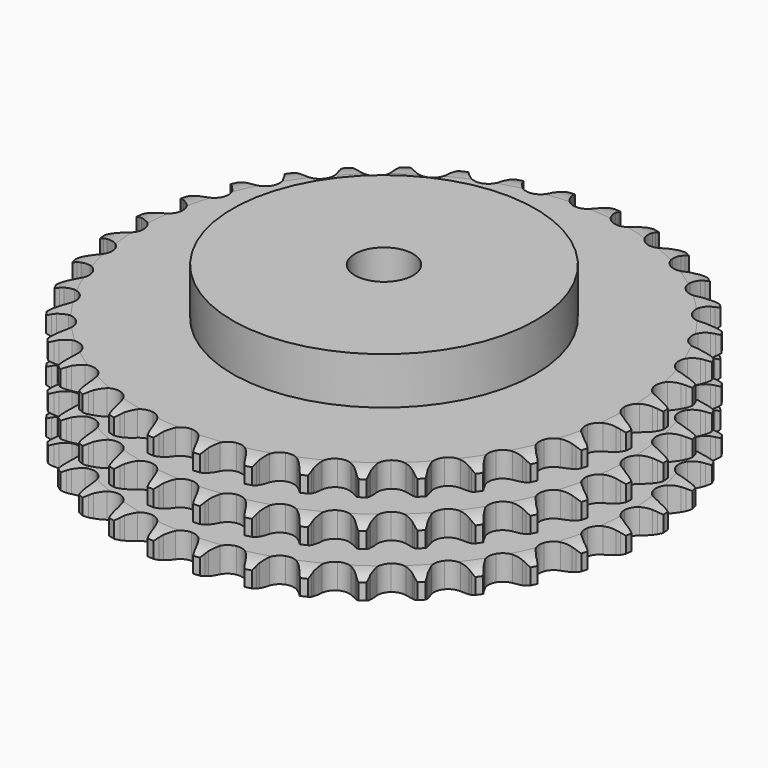
from build123d import *

# Parameters (mm, degrees)
PAD_DEPTH         = 49.8
SKETCH001_R       = 65
PAD001_DEPTH      = 70
SKETCH002_R       = 12.5
POCKET_DEPTH      = 0.001
POCKET_DEPTH_BACK = 70.001


with BuildPart() as part:
    # Sprocket → Pad (new body)
    with BuildSketch(Plane.XY):
        with BuildLine():
            ThreePointArc((-10.052334, 114.898699), (-8.631125, 113.189539), (-7.631331, 111.204226))
            Line((-7.631331, 111.204226), (-7.042556, 109.605897))
            ThreePointArc((-7.042556, 109.605897), (-6.111504, 107.547038), (-4.895578, 105.642496))
            ThreePointArc((-4.895578, 105.642496), (-2.739145, 103.833033), (0, 103.183844))
            ThreePointArc((0, 103.183844), (2.739145, 103.833033), (4.895578, 105.642496))
            ThreePointArc((4.895578, 105.642496), (6.111504, 107.547038), (7.042556, 109.605897))
            Line((7.042556, 109.605897), (7.631331, 111.204226))
            ThreePointArc((7.631331, 111.204226), (8.631125, 113.189539), (10.052334, 114.898699))
            ThreePointArc((10.052334, 114.898699), (11.155158, 112.968715), (11.795017, 110.83995))
            Line((11.795017, 110.83995), (12.0973, 109.163664))
            ThreePointArc((12.0973, 109.163664), (12.656691, 106.974409), (13.523423, 104.887657))
            ThreePointArc((13.523423, 104.887657), (15.332886, 102.731223), (17.917686, 101.616249))
            ThreePointArc((17.917686, 101.616249), (20.727948, 101.779928), (23.16583, 103.18744))
            Line((23.16583, 103.18744), (25.968428, 106.71781))
            ThreePointArc((25.968428, 106.71781), (26.377217, 107.465305), (26.825805, 108.189617))
            ThreePointArc((26.825805, 108.189617), (28.155156, 109.971157), (29.851566, 111.40756))
            ThreePointArc((29.851566, 111.40756), (30.602498, 109.315394), (30.86298, 107.107859))
            Line((30.86298, 107.107859), (30.869586, 105.404549))
            ThreePointArc((30.869586, 105.404549), (31.040318, 103.151416), (31.531523, 100.94586))
            ThreePointArc((31.531523, 100.94586), (32.939035, 98.507978), (35.290953, 96.961096))
            ThreePointArc((35.290953, 96.961096), (38.086943, 96.634292), (40.7322, 97.597087))
            Line((40.7322, 97.597087), (44.105263, 100.587156))
            ThreePointArc((44.105263, 100.587156), (44.637643, 101.25231), (45.20519, 101.887721))
            ThreePointArc((45.20519, 101.887721), (46.823707, 103.411356), (48.743773, 104.531359))
            ThreePointArc((48.743773, 104.531359), (49.119996, 102.340579), (48.993186, 100.12135))
            Line((48.993186, 100.12135), (48.703916, 98.442769))
            ThreePointArc((48.703916, 98.442769), (48.480802, 96.194219), (48.581552, 93.936874))
            ThreePointArc((48.581552, 93.936874), (49.544347, 91.291617), (51.591922, 89.35983))
            ThreePointArc((51.591922, 89.35983), (54.288685, 88.552472), (57.060943, 89.041296))
            Line((57.060943, 89.041296), (60.901981, 91.400213))
            ThreePointArc((60.901981, 91.400213), (61.541776, 91.962815), (62.211039, 92.490019))
            ThreePointArc((62.211039, 92.490019), (64.069543, 93.709454), (66.154926, 94.479025))
            ThreePointArc((66.154926, 94.479025), (66.145008, 92.256198), (65.63476, 90.092704))
            Line((65.63476, 90.092704), (65.058401, 88.489856))
            ThreePointArc((65.058401, 88.489856), (64.44822, 86.31421), (64.155457, 84.073664))
            ThreePointArc((64.155457, 84.073664), (64.64428, 81.301406), (66.325296, 79.04341))
            ThreePointArc((66.325296, 79.04341), (68.840894, 77.78003), (71.655918, 77.78003))
            Line((71.655918, 77.78003), (75.848224, 79.43612))
            ThreePointArc((75.848224, 79.43612), (76.575993, 79.879076), (77.326637, 80.282054))
            ThreePointArc((77.326637, 80.282054), (79.368659, 81.160237), (81.555994, 81.555994))
            ThreePointArc((81.555994, 81.555994), (81.160237, 79.368659), (80.282054, 77.326637))
            Line((80.282054, 77.326637), (79.43612, 75.848224))
            ThreePointArc((79.43612, 75.848224), (78.457412, 73.811587), (77.78003, 71.655918))
            ThreePointArc((77.78003, 71.655918), (77.78003, 68.840894), (79.04341, 66.325296))
            ThreePointArc((79.04341, 66.325296), (81.301406, 64.64428), (84.073664, 64.155457))
            Line((84.073664, 64.155457), (88.489856, 65.058401))
            ThreePointArc((88.489856, 65.058401), (89.283488, 65.368252), (90.092704, 65.63476))
            ThreePointArc((90.092704, 65.63476), (92.256198, 66.145008), (94.479025, 66.154926))
            ThreePointArc((94.479025, 66.154926), (93.709454, 64.069543), (92.490019, 62.211039))
            Line((92.490019, 62.211039), (91.400213, 60.901981))
            ThreePointArc((91.400213, 60.901981), (90.082715, 59.066237), (89.041296, 57.060943))
            ThreePointArc((89.041296, 57.060943), (88.552472, 54.288685), (89.35983, 51.591922))
            ThreePointArc((89.35983, 51.591922), (91.291617, 49.544347), (93.936874, 48.581552))
            Line((93.936874, 48.581552), (98.442769, 48.703916))
            ThreePointArc((98.442769, 48.703916), (99.278149, 48.871246), (100.12135, 48.993186))
            ThreePointArc((100.12135, 48.993186), (102.340579, 49.119996), (104.531359, 48.743773))
            ThreePointArc((104.531359, 48.743773), (103.411356, 46.823707), (101.887721, 45.20519))
            Line((101.887721, 45.20519), (100.587156, 44.105263))
            ThreePointArc((100.587156, 44.105263), (98.970901, 42.526188), (97.597087, 40.7322))
            ThreePointArc((97.597087, 40.7322), (96.634292, 38.086943), (96.961096, 35.290953))
            ThreePointArc((96.961096, 35.290953), (98.507978, 32.939035), (100.94586, 31.531523))
            Line((100.94586, 31.531523), (105.404549, 30.869586))
            ThreePointArc((105.404549, 30.869586), (106.256293, 30.889312), (107.107859, 30.86298))
            ThreePointArc((107.107859, 30.86298), (109.315394, 30.602498), (111.40756, 29.851566))
            ThreePointArc((111.40756, 29.851566), (109.971157, 28.155156), (108.189617, 26.825805))
            Line((108.189617, 26.825805), (106.71781, 25.968428))
            ThreePointArc((106.71781, 25.968428), (104.851906, 24.694004), (103.18744, 23.16583))
            ThreePointArc((103.18744, 23.16583), (101.779928, 20.727948), (101.616249, 17.917686))
            ThreePointArc((101.616249, 17.917686), (102.731223, 15.332886), (104.887657, 13.523423))
            Line((104.887657, 13.523423), (109.163664, 12.0973))
            ThreePointArc((109.163664, 12.0973), (110.005894, 11.968823), (110.83995, 11.795017))
            ThreePointArc((110.83995, 11.795017), (112.968715, 11.155158), (114.898699, 10.052334))
            ThreePointArc((114.898699, 10.052334), (113.189539, 8.631125), (111.204226, 7.631331))
            Line((111.204226, 7.631331), (109.605897, 7.042556))
            ThreePointArc((109.605897, 7.042556), (107.547038, 6.111504), (105.642496, 4.895578))
            ThreePointArc((105.642496, 4.895578), (103.833033, 2.739145), (103.183844, 0))
            ThreePointArc((103.183844, 0), (103.833033, -2.739145), (105.642496, -4.895578))
            Line((105.642496, -4.895578), (109.605897, -7.042556))
            ThreePointArc((109.605897, -7.042556), (110.413022, -7.315334), (111.204226, -7.631331))
            ThreePointArc((111.204226, -7.631331), (113.189539, -8.631125), (114.898699, -10.052334))
            ThreePointArc((114.898699, -10.052334), (112.968715, -11.155158), (110.83995, -11.795017))
            Line((110.83995, -11.795017), (109.163664, -12.0973))
            ThreePointArc((109.163664, -12.0973), (106.974409, -12.656691), (104.887657, -13.523423))
            ThreePointArc((104.887657, -13.523423), (102.731223, -15.332886), (101.616249, -17.917686))
            ThreePointArc((101.616249, -17.917686), (101.779928, -20.727948), (103.18744, -23.16583))
            Line((103.18744, -23.16583), (106.71781, -25.968428))
            ThreePointArc((106.71781, -25.968428), (107.465305, -26.377217), (108.189617, -26.825805))
            ThreePointArc((108.189617, -26.825805), (109.971157, -28.155156), (111.40756, -29.851566))
            ThreePointArc((111.40756, -29.851566), (109.315394, -30.602498), (107.107859, -30.86298))
            Line((107.107859, -30.86298), (105.404549, -30.869586))
            ThreePointArc((105.404549, -30.869586), (103.151416, -31.040318), (100.94586, -31.531523))
            ThreePointArc((100.94586, -31.531523), (98.507978, -32.939035), (96.961096, -35.290953))
            ThreePointArc((96.961096, -35.290953), (96.634292, -38.086943), (97.597087, -40.7322))
            Line((97.597087, -40.7322), (100.587156, -44.105263))
            ThreePointArc((100.587156, -44.105263), (101.25231, -44.637643), (101.887721, -45.20519))
            ThreePointArc((101.887721, -45.20519), (103.411356, -46.823707), (104.531359, -48.743773))
            ThreePointArc((104.531359, -48.743773), (102.340579, -49.119996), (100.12135, -48.993186))
            Line((100.12135, -48.993186), (98.442769, -48.703916))
            ThreePointArc((98.442769, -48.703916), (96.194219, -48.480802), (93.936874, -48.581552))
            ThreePointArc((93.936874, -48.581552), (91.291617, -49.544347), (89.35983, -51.591922))
            ThreePointArc((89.35983, -51.591922), (88.552472, -54.288685), (89.041296, -57.060943))
            Line((89.041296, -57.060943), (91.400213, -60.901981))
            ThreePointArc((91.400213, -60.901981), (91.962815, -61.541776), (92.490019, -62.211039))
            ThreePointArc((92.490019, -62.211039), (93.709454, -64.069543), (94.479025, -66.154926))
            ThreePointArc((94.479025, -66.154926), (92.256198, -66.145008), (90.092704, -65.63476))
            Line((90.092704, -65.63476), (88.489856, -65.058401))
            ThreePointArc((88.489856, -65.058401), (86.31421, -64.44822), (84.073664, -64.155457))
            ThreePointArc((84.073664, -64.155457), (81.301406, -64.64428), (79.04341, -66.325296))
            ThreePointArc((79.04341, -66.325296), (77.78003, -68.840894), (77.78003, -71.655918))
            Line((77.78003, -71.655918), (79.43612, -75.848224))
            ThreePointArc((79.43612, -75.848224), (79.879076, -76.575993), (80.282054, -77.326637))
            ThreePointArc((80.282054, -77.326637), (81.160237, -79.368659), (81.555994, -81.555994))
            ThreePointArc((81.555994, -81.555994), (79.368659, -81.160237), (77.326637, -80.282054))
            Line((77.326637, -80.282054), (75.848224, -79.43612))
            ThreePointArc((75.848224, -79.43612), (73.811587, -78.457412), (71.655918, -77.78003))
            ThreePointArc((71.655918, -77.78003), (68.840894, -77.78003), (66.325296, -79.04341))
            ThreePointArc((66.325296, -79.04341), (64.64428, -81.301406), (64.155457, -84.073664))
            Line((64.155457, -84.073664), (65.058401, -88.489856))
            ThreePointArc((65.058401, -88.489856), (65.368252, -89.283488), (65.63476, -90.092704))
            ThreePointArc((65.63476, -90.092704), (66.145008, -92.256198), (66.154926, -94.479025))
            ThreePointArc((66.154926, -94.479025), (64.069543, -93.709454), (62.211039, -92.490019))
            Line((62.211039, -92.490019), (60.901981, -91.400213))
            ThreePointArc((60.901981, -91.400213), (59.066237, -90.082715), (57.060943, -89.041296))
            ThreePointArc((57.060943, -89.041296), (54.288685, -88.552472), (51.591922, -89.35983))
            ThreePointArc((51.591922, -89.35983), (49.544347, -91.291617), (48.581552, -93.936874))
            Line((48.581552, -93.936874), (48.703916, -98.442769))
            ThreePointArc((48.703916, -98.442769), (48.871246, -99.278149), (48.993186, -100.12135))
            ThreePointArc((48.993186, -100.12135), (49.119996, -102.340579), (48.743773, -104.531359))
            ThreePointArc((48.743773, -104.531359), (46.823707, -103.411356), (45.20519, -101.887721))
            Line((45.20519, -101.887721), (44.105263, -100.587156))
            ThreePointArc((44.105263, -100.587156), (42.526188, -98.970901), (40.7322, -97.597087))
            ThreePointArc((40.7322, -97.597087), (38.086943, -96.634292), (35.290953, -96.961096))
            ThreePointArc((35.290953, -96.961096), (32.939035, -98.507978), (31.531523, -100.94586))
            Line((31.531523, -100.94586), (30.869586, -105.404549))
            ThreePointArc((30.869586, -105.404549), (30.889312, -106.256293), (30.86298, -107.107859))
            ThreePointArc((30.86298, -107.107859), (30.602498, -109.315394), (29.851566, -111.40756))
            ThreePointArc((29.851566, -111.40756), (28.155156, -109.971157), (26.825805, -108.189617))
            Line((26.825805, -108.189617), (25.968428, -106.71781))
            ThreePointArc((25.968428, -106.71781), (24.694004, -104.851906), (23.16583, -103.18744))
            ThreePointArc((23.16583, -103.18744), (20.727948, -101.779928), (17.917686, -101.616249))
            ThreePointArc((17.917686, -101.616249), (15.332886, -102.731223), (13.523423, -104.887657))
            Line((13.523423, -104.887657), (12.0973, -109.163664))
            ThreePointArc((12.0973, -109.163664), (11.968823, -110.005894), (11.795017, -110.83995))
            ThreePointArc((11.795017, -110.83995), (11.155158, -112.968715), (10.052334, -114.898699))
            ThreePointArc((10.052334, -114.898699), (8.631125, -113.189539), (7.631331, -111.204226))
            Line((7.631331, -111.204226), (7.042556, -109.605897))
            ThreePointArc((7.042556, -109.605897), (6.111504, -107.547038), (4.895578, -105.642496))
            ThreePointArc((4.895578, -105.642496), (2.739145, -103.833033), (0, -103.183844))
            ThreePointArc((0, -103.183844), (-2.739145, -103.833033), (-4.895578, -105.642496))
            Line((-4.895578, -105.642496), (-7.042556, -109.605897))
            ThreePointArc((-7.042556, -109.605897), (-7.315334, -110.413022), (-7.631331, -111.204226))
            ThreePointArc((-7.631331, -111.204226), (-8.631125, -113.189539), (-10.052334, -114.898699))
            ThreePointArc((-10.052334, -114.898699), (-11.155158, -112.968715), (-11.795017, -110.83995))
            Line((-11.795017, -110.83995), (-12.0973, -109.163664))
            ThreePointArc((-12.0973, -109.163664), (-12.656691, -106.974409), (-13.523423, -104.887657))
            ThreePointArc((-13.523423, -104.887657), (-15.332886, -102.731223), (-17.917686, -101.616249))
            ThreePointArc((-17.917686, -101.616249), (-20.727948, -101.779928), (-23.16583, -103.18744))
            Line((-23.16583, -103.18744), (-25.968428, -106.71781))
            ThreePointArc((-25.968428, -106.71781), (-26.377217, -107.465305), (-26.825805, -108.189617))
            ThreePointArc((-26.825805, -108.189617), (-28.155156, -109.971157), (-29.851566, -111.40756))
            ThreePointArc((-29.851566, -111.40756), (-30.602498, -109.315394), (-30.86298, -107.107859))
            Line((-30.86298, -107.107859), (-30.869586, -105.404549))
            ThreePointArc((-30.869586, -105.404549), (-31.040318, -103.151416), (-31.531523, -100.94586))
            ThreePointArc((-31.531523, -100.94586), (-32.939035, -98.507978), (-35.290953, -96.961096))
            ThreePointArc((-35.290953, -96.961096), (-38.086943, -96.634292), (-40.7322, -97.597087))
            Line((-40.7322, -97.597087), (-44.105263, -100.587156))
            ThreePointArc((-44.105263, -100.587156), (-44.637643, -101.25231), (-45.20519, -101.887721))
            ThreePointArc((-45.20519, -101.887721), (-46.823707, -103.411356), (-48.743773, -104.531359))
            ThreePointArc((-48.743773, -104.531359), (-49.119996, -102.340579), (-48.993186, -100.12135))
            Line((-48.993186, -100.12135), (-48.703916, -98.442769))
            ThreePointArc((-48.703916, -98.442769), (-48.480802, -96.194219), (-48.581552, -93.936874))
            ThreePointArc((-48.581552, -93.936874), (-49.544347, -91.291617), (-51.591922, -89.35983))
            ThreePointArc((-51.591922, -89.35983), (-54.288685, -88.552472), (-57.060943, -89.041296))
            Line((-57.060943, -89.041296), (-60.901981, -91.400213))
            ThreePointArc((-60.901981, -91.400213), (-61.541776, -91.962815), (-62.211039, -92.490019))
            ThreePointArc((-62.211039, -92.490019), (-64.069543, -93.709454), (-66.154926, -94.479025))
            ThreePointArc((-66.154926, -94.479025), (-66.145008, -92.256198), (-65.63476, -90.092704))
            Line((-65.63476, -90.092704), (-65.058401, -88.489856))
            ThreePointArc((-65.058401, -88.489856), (-64.44822, -86.31421), (-64.155457, -84.073664))
            ThreePointArc((-64.155457, -84.073664), (-64.64428, -81.301406), (-66.325296, -79.04341))
            ThreePointArc((-66.325296, -79.04341), (-68.840894, -77.78003), (-71.655918, -77.78003))
            Line((-71.655918, -77.78003), (-75.848224, -79.43612))
            ThreePointArc((-75.848224, -79.43612), (-76.575993, -79.879076), (-77.326637, -80.282054))
            ThreePointArc((-77.326637, -80.282054), (-79.368659, -81.160237), (-81.555994, -81.555994))
            ThreePointArc((-81.555994, -81.555994), (-81.160237, -79.368659), (-80.282054, -77.326637))
            Line((-80.282054, -77.326637), (-79.43612, -75.848224))
            ThreePointArc((-79.43612, -75.848224), (-78.457412, -73.811587), (-77.78003, -71.655918))
            ThreePointArc((-77.78003, -71.655918), (-77.78003, -68.840894), (-79.04341, -66.325296))
            ThreePointArc((-79.04341, -66.325296), (-81.301406, -64.64428), (-84.073664, -64.155457))
            Line((-84.073664, -64.155457), (-88.489856, -65.058401))
            ThreePointArc((-88.489856, -65.058401), (-89.283488, -65.368252), (-90.092704, -65.63476))
            ThreePointArc((-90.092704, -65.63476), (-92.256198, -66.145008), (-94.479025, -66.154926))
            ThreePointArc((-94.479025, -66.154926), (-93.709454, -64.069543), (-92.490019, -62.211039))
            Line((-92.490019, -62.211039), (-91.400213, -60.901981))
            ThreePointArc((-91.400213, -60.901981), (-90.082715, -59.066237), (-89.041296, -57.060943))
            ThreePointArc((-89.041296, -57.060943), (-88.552472, -54.288685), (-89.35983, -51.591922))
            ThreePointArc((-89.35983, -51.591922), (-91.291617, -49.544347), (-93.936874, -48.581552))
            Line((-93.936874, -48.581552), (-98.442769, -48.703916))
            ThreePointArc((-98.442769, -48.703916), (-99.278149, -48.871246), (-100.12135, -48.993186))
            ThreePointArc((-100.12135, -48.993186), (-102.340579, -49.119996), (-104.531359, -48.743773))
            ThreePointArc((-104.531359, -48.743773), (-103.411356, -46.823707), (-101.887721, -45.20519))
            Line((-101.887721, -45.20519), (-100.587156, -44.105263))
            ThreePointArc((-100.587156, -44.105263), (-98.970901, -42.526188), (-97.597087, -40.7322))
            ThreePointArc((-97.597087, -40.7322), (-96.634292, -38.086943), (-96.961096, -35.290953))
            ThreePointArc((-96.961096, -35.290953), (-98.507978, -32.939035), (-100.94586, -31.531523))
            Line((-100.94586, -31.531523), (-105.404549, -30.869586))
            ThreePointArc((-105.404549, -30.869586), (-106.256293, -30.889312), (-107.107859, -30.86298))
            ThreePointArc((-107.107859, -30.86298), (-109.315394, -30.602498), (-111.40756, -29.851566))
            ThreePointArc((-111.40756, -29.851566), (-109.971157, -28.155156), (-108.189617, -26.825805))
            Line((-108.189617, -26.825805), (-106.71781, -25.968428))
            ThreePointArc((-106.71781, -25.968428), (-104.851906, -24.694004), (-103.18744, -23.16583))
            ThreePointArc((-103.18744, -23.16583), (-101.779928, -20.727948), (-101.616249, -17.917686))
            ThreePointArc((-101.616249, -17.917686), (-102.731223, -15.332886), (-104.887657, -13.523423))
            Line((-104.887657, -13.523423), (-109.163664, -12.0973))
            ThreePointArc((-109.163664, -12.0973), (-110.005894, -11.968823), (-110.83995, -11.795017))
            ThreePointArc((-110.83995, -11.795017), (-112.968715, -11.155158), (-114.898699, -10.052334))
            ThreePointArc((-114.898699, -10.052334), (-113.189539, -8.631125), (-111.204226, -7.631331))
            Line((-111.204226, -7.631331), (-109.605897, -7.042556))
            ThreePointArc((-109.605897, -7.042556), (-107.547038, -6.111504), (-105.642496, -4.895578))
            ThreePointArc((-105.642496, -4.895578), (-103.833033, -2.739145), (-103.183844, 0))
            ThreePointArc((-103.183844, 0), (-103.833033, 2.739145), (-105.642496, 4.895578))
            Line((-105.642496, 4.895578), (-109.605897, 7.042556))
            ThreePointArc((-109.605897, 7.042556), (-110.413022, 7.315334), (-111.204226, 7.631331))
            ThreePointArc((-111.204226, 7.631331), (-113.189539, 8.631125), (-114.898699, 10.052334))
            ThreePointArc((-114.898699, 10.052334), (-112.968715, 11.155158), (-110.83995, 11.795017))
            Line((-110.83995, 11.795017), (-109.163664, 12.0973))
            ThreePointArc((-109.163664, 12.0973), (-106.974409, 12.656691), (-104.887657, 13.523423))
            ThreePointArc((-104.887657, 13.523423), (-102.731223, 15.332886), (-101.616249, 17.917686))
            ThreePointArc((-101.616249, 17.917686), (-101.779928, 20.727948), (-103.18744, 23.16583))
            Line((-103.18744, 23.16583), (-106.71781, 25.968428))
            ThreePointArc((-106.71781, 25.968428), (-107.465305, 26.377217), (-108.189617, 26.825805))
            ThreePointArc((-108.189617, 26.825805), (-109.971157, 28.155156), (-111.40756, 29.851566))
            ThreePointArc((-111.40756, 29.851566), (-109.315394, 30.602498), (-107.107859, 30.86298))
            Line((-107.107859, 30.86298), (-105.404549, 30.869586))
            ThreePointArc((-105.404549, 30.869586), (-103.151416, 31.040318), (-100.94586, 31.531523))
            ThreePointArc((-100.94586, 31.531523), (-98.507978, 32.939035), (-96.961096, 35.290953))
            ThreePointArc((-96.961096, 35.290953), (-96.634292, 38.086943), (-97.597087, 40.7322))
            Line((-97.597087, 40.7322), (-100.587156, 44.105263))
            ThreePointArc((-100.587156, 44.105263), (-101.25231, 44.637643), (-101.887721, 45.20519))
            ThreePointArc((-101.887721, 45.20519), (-103.411356, 46.823707), (-104.531359, 48.743773))
            ThreePointArc((-104.531359, 48.743773), (-102.340579, 49.119996), (-100.12135, 48.993186))
            Line((-100.12135, 48.993186), (-98.442769, 48.703916))
            ThreePointArc((-98.442769, 48.703916), (-96.194219, 48.480802), (-93.936874, 48.581552))
            ThreePointArc((-93.936874, 48.581552), (-91.291617, 49.544347), (-89.35983, 51.591922))
            ThreePointArc((-89.35983, 51.591922), (-88.552472, 54.288685), (-89.041296, 57.060943))
            Line((-89.041296, 57.060943), (-91.400213, 60.901981))
            ThreePointArc((-91.400213, 60.901981), (-91.962815, 61.541776), (-92.490019, 62.211039))
            ThreePointArc((-92.490019, 62.211039), (-93.709454, 64.069543), (-94.479025, 66.154926))
            ThreePointArc((-94.479025, 66.154926), (-92.256198, 66.145008), (-90.092704, 65.63476))
            Line((-90.092704, 65.63476), (-88.489856, 65.058401))
            ThreePointArc((-88.489856, 65.058401), (-86.31421, 64.44822), (-84.073664, 64.155457))
            ThreePointArc((-84.073664, 64.155457), (-81.301406, 64.64428), (-79.04341, 66.325296))
            ThreePointArc((-79.04341, 66.325296), (-77.78003, 68.840894), (-77.78003, 71.655918))
            Line((-77.78003, 71.655918), (-79.43612, 75.848224))
            ThreePointArc((-79.43612, 75.848224), (-79.879076, 76.575993), (-80.282054, 77.326637))
            ThreePointArc((-80.282054, 77.326637), (-81.160237, 79.368659), (-81.555994, 81.555994))
            ThreePointArc((-81.555994, 81.555994), (-79.368659, 81.160237), (-77.326637, 80.282054))
            Line((-77.326637, 80.282054), (-75.848224, 79.43612))
            ThreePointArc((-75.848224, 79.43612), (-73.811587, 78.457412), (-71.655918, 77.78003))
            ThreePointArc((-71.655918, 77.78003), (-68.840894, 77.78003), (-66.325296, 79.04341))
            ThreePointArc((-66.325296, 79.04341), (-64.64428, 81.301406), (-64.155457, 84.073664))
            Line((-64.155457, 84.073664), (-65.058401, 88.489856))
            ThreePointArc((-65.058401, 88.489856), (-65.368252, 89.283488), (-65.63476, 90.092704))
            ThreePointArc((-65.63476, 90.092704), (-66.145008, 92.256198), (-66.154926, 94.479025))
            ThreePointArc((-66.154926, 94.479025), (-64.069543, 93.709454), (-62.211039, 92.490019))
            Line((-62.211039, 92.490019), (-60.901981, 91.400213))
            ThreePointArc((-60.901981, 91.400213), (-59.066237, 90.082715), (-57.060943, 89.041296))
            ThreePointArc((-57.060943, 89.041296), (-54.288685, 88.552472), (-51.591922, 89.35983))
            ThreePointArc((-51.591922, 89.35983), (-49.544347, 91.291617), (-48.581552, 93.936874))
            Line((-48.581552, 93.936874), (-48.703916, 98.442769))
            ThreePointArc((-48.703916, 98.442769), (-48.871246, 99.278149), (-48.993186, 100.12135))
            ThreePointArc((-48.993186, 100.12135), (-49.119996, 102.340579), (-48.743773, 104.531359))
            ThreePointArc((-48.743773, 104.531359), (-46.823707, 103.411356), (-45.20519, 101.887721))
            Line((-45.20519, 101.887721), (-44.105263, 100.587156))
            ThreePointArc((-44.105263, 100.587156), (-42.526188, 98.970901), (-40.7322, 97.597087))
            ThreePointArc((-40.7322, 97.597087), (-38.086943, 96.634292), (-35.290953, 96.961096))
            ThreePointArc((-35.290953, 96.961096), (-32.939035, 98.507978), (-31.531523, 100.94586))
            Line((-31.531523, 100.94586), (-30.869586, 105.404549))
            ThreePointArc((-30.869586, 105.404549), (-30.889312, 106.256293), (-30.86298, 107.107859))
            ThreePointArc((-30.86298, 107.107859), (-30.602498, 109.315394), (-29.851566, 111.40756))
            ThreePointArc((-29.851566, 111.40756), (-28.155156, 109.971157), (-26.825805, 108.189617))
            Line((-26.825805, 108.189617), (-25.968428, 106.71781))
            ThreePointArc((-25.968428, 106.71781), (-24.694004, 104.851906), (-23.16583, 103.18744))
            ThreePointArc((-23.16583, 103.18744), (-20.727948, 101.779928), (-17.917686, 101.616249))
            ThreePointArc((-17.917686, 101.616249), (-15.332886, 102.731223), (-13.523423, 104.887657))
            Line((-13.523423, 104.887657), (-12.0973, 109.163664))
            ThreePointArc((-12.0973, 109.163664), (-11.968823, 110.005894), (-11.795017, 110.83995))
            ThreePointArc((-11.795017, 110.83995), (-11.155158, 112.968715), (-10.052334, 114.898699))
        make_face()
    extrude(amount=PAD_DEPTH)

    # Sketch → Groove (revolve, cut)
    with BuildSketch(Plane.XZ):
        with BuildLine():
            ThreePointArc((104.914719, 0), (109.273618, 0.506758), (113.4, 2))
            Line((113.4, 2), (113.4, 8.8))
            ThreePointArc((113.4, 8.8), (109.273618, 10.293242), (104.914719, 10.8))
            Line((65, 10.8), (104.914719, 10.8))
            Line((65, 10.8), (65, 19.5))
            Line((65, 19.5), (104.914719, 19.5))
            ThreePointArc((104.914719, 19.5), (109.273618, 20.006758), (113.4, 21.5))
            Line((113.4, 28.3), (113.4, 21.5))
            ThreePointArc((113.4, 28.3), (109.273618, 29.793242), (104.914719, 30.3))
            Line((65, 30.3), (104.914719, 30.3))
            Line((65, 39), (65, 30.3))
            Line((104.914719, 39), (65, 39))
            ThreePointArc((104.914719, 39), (109.273618, 39.506758), (113.4, 41))
            Line((113.4, 41), (113.4, 47.8))
            ThreePointArc((113.4, 47.8), (109.273618, 49.293242), (104.914719, 49.8))
            Line((104.914719, 49.8), (123.4, 49.8))
            Line((123.4, 49.8), (123.4, 0))
            Line((104.914719, 0), (123.4, 0))
        make_face()
    revolve(axis=Axis((0, 0, 0), (0, 0, 1)), mode=Mode.SUBTRACT)

    # Sketch001 → Pad001 (join)
    with BuildSketch(Plane.XY):
        Circle(SKETCH001_R)
    extrude(amount=PAD001_DEPTH)

    # Sketch002 → Pocket (cut, two sides)
    with BuildSketch(Plane.XY) as pocket_sk:
        Circle(SKETCH002_R)
    extrude(amount=-POCKET_DEPTH, mode=Mode.SUBTRACT)
    extrude(pocket_sk.sketch, amount=POCKET_DEPTH_BACK, mode=Mode.SUBTRACT)


solid = part.part
